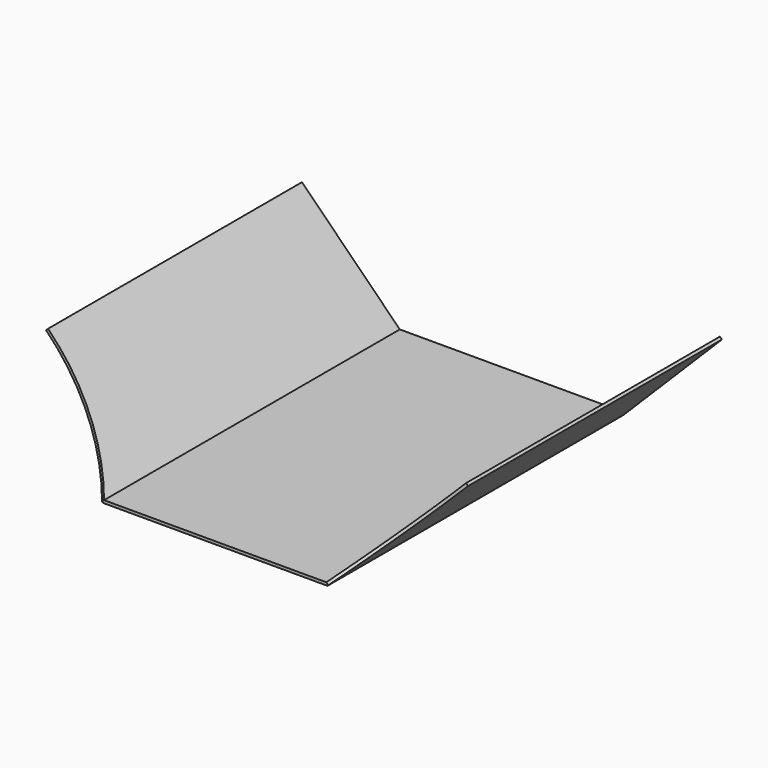
from build123d import *

# Parameters (mm, degrees)
F1_DEPTH = 480
F3_DEPTH = 50
F5_DEPTH = 25
F7_DEPTH = 25


with BuildPart() as f1:
    # F0 (on Front) → F1 (new body)
    with BuildSketch(Plane.XZ):
        Polygon((-161, 0), (0, 0), (161, 0), (302.421356, 141.421356), (299.592929, 144.249783), (159.343146, 4), (0, 4), (-159.343146, 4), (-299.592929, 144.249783), (-302.421356, 141.421356), align=None)
    extrude(amount=F1_DEPTH)

    # F2 (on face) → F3 (join)
    with BuildSketch(Plane.XZ.offset(480)):
        Polygon((-299.592929, 144.249783), (-302.421356, 141.421356), (-161, 0), (161, 0), (302.421356, 141.421356), (299.592929, 144.249783), (159.343146, 4), (-159.343146, 4), align=None)
    extrude(amount=F3_DEPTH)

    # F4 (on face) → F5 (cut)
    with BuildSketch(Plane(origin=(-77.671573, 0, -77.671573), x_dir=(0, 1, 0), z_dir=(0.707107, 0, 0.707107))):
        with BuildLine():
            Line((-754.76669, 313.844192), (-530, 115.501046))
            ThreePointArc((-530, 115.501046), (-474.376217, 207.819426), (-455, 313.844192))
            Line((-455, 313.844192), (-754.76669, 313.844192))
        make_face()
    extrude(amount=-F5_DEPTH, mode=Mode.SUBTRACT)

    # F6 (on face) → F7 (cut)
    with BuildSketch(Plane(origin=(77.671573, 0, -77.671573), x_dir=(0, -1, 0), z_dir=(-0.707107, 0, 0.707107))):
        with BuildLine():
            Line((754.76669, 313.844192), (455, 313.844192))
            ThreePointArc((455, 313.844192), (474.376217, 207.819426), (530, 115.501046))
            Line((530, 115.501046), (754.76669, 313.844192))
        make_face()
    extrude(amount=-F7_DEPTH, mode=Mode.SUBTRACT)


solid = f1.part
